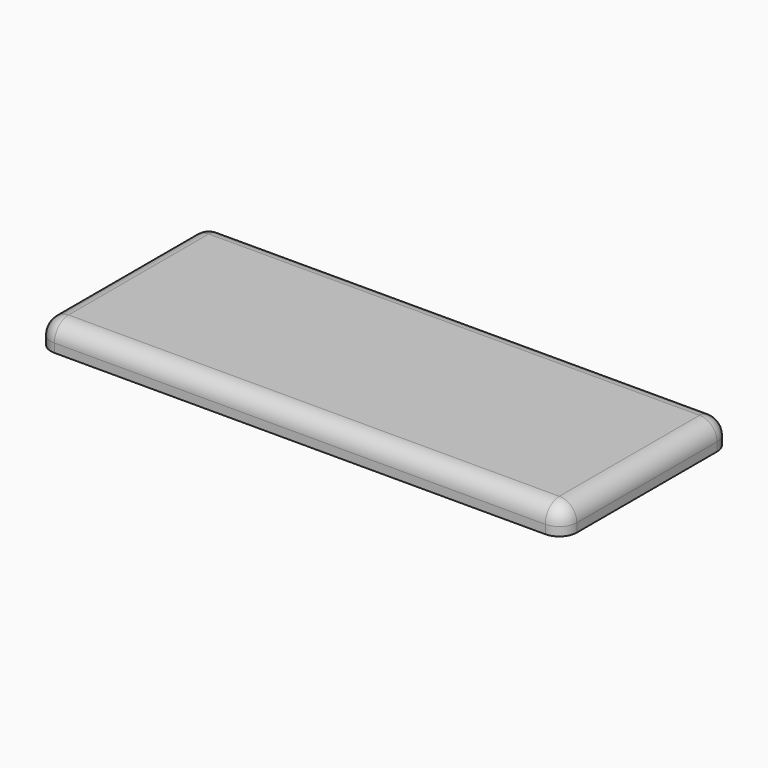
from build123d import *

# Parameters (mm, degrees)
F1_DEPTH = 1.5
F2_R     = 1
F3_W     = 26
F3_H     = 11
F4_DEPTH = 1


with BuildPart() as f1:
    # F0 (on Top) → F1 (new body)
    with BuildSketch(Plane.XY):
        with BuildLine():
            ThreePointArc((0, 1), (0.2928932188, 0.2928932188), (1, 0))
            Line((1, 0), (29, 0))
            ThreePointArc((29, 0), (29.7071067812, 0.2928932188), (30, 1))
            Line((30, 1), (30, 11))
            ThreePointArc((30, 11), (29.7071067812, 11.7071067812), (29, 12))
            Line((29, 12), (1, 12))
            ThreePointArc((1, 12), (0.2928932188, 11.7071067812), (0, 11))
            Line((0, 11), (0, 1))
        make_face()
    extrude(amount=F1_DEPTH)

    # F2
    f2_edges = [f1.edges().sort_by_distance(p)[0] for p in [
        (0, 6, 1.5),
        (0.292893, 0.292893, 1.5),
        (15, 0, 1.5),
        (29.707107, 0.292893, 1.5),
        (30, 6, 1.5),
        (29.707107, 11.707107, 1.5),
        (15, 12, 1.5),
        (0.292893, 11.707107, 1.5),
    ]]
    fillet(f2_edges, radius=F2_R)

    # F3 (on Top) → F4 (cut)
    with BuildSketch(Plane.XY):
        with Locations((15, 6)):
            Rectangle(F3_W, F3_H)
    extrude(amount=F4_DEPTH, mode=Mode.SUBTRACT)


solid = f1.part
